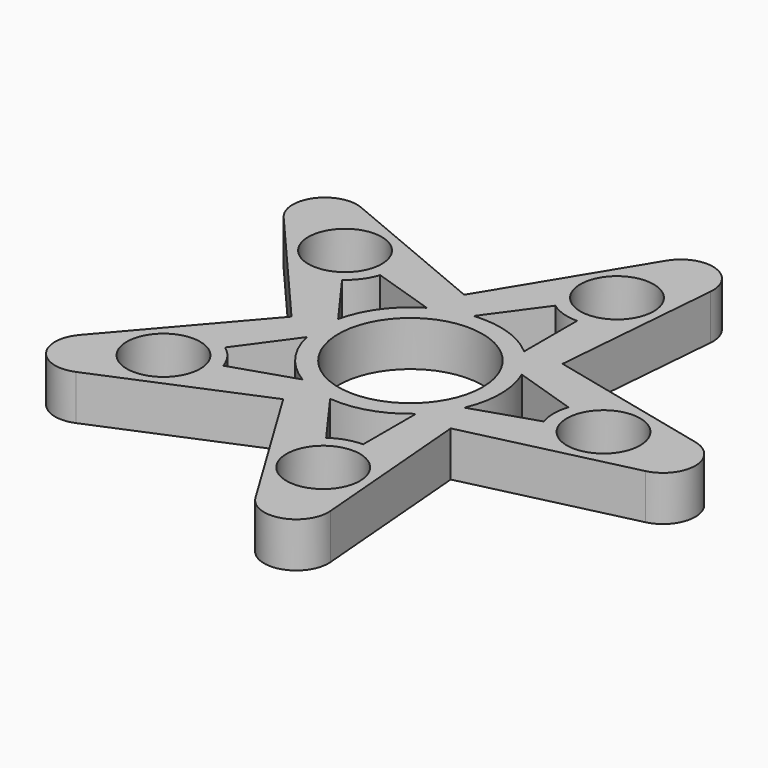
from build123d import *

# Parameters (mm, degrees)
F0_R     = 5.7
F0_R_2   = 11.2
F1_DEPTH = 7
F2_R     = 5


with BuildPart() as f1:
    # F0 (on Top) → F1 (new body)
    with BuildSketch(Plane.XY):
        Polygon((14.950241, -10.861986), (61.069731, 0), (14.950241, 10.861986), (18.871585, 58.080765), (-5.710484, 17.575063), (-49.40645, 35.895887), (-18.479514, 0), (-49.40645, -35.895887), (-5.710484, -17.575063), (18.871585, -58.080765), align=None)
        with Locations((-24.27051, -17.633558)):
            Circle(F0_R, mode=Mode.SUBTRACT)
        with BuildLine():
            Line((9.27051, -10.490836), (9.27051, -20.77537))
            ThreePointArc((9.27051, -20.77537), (6.873673, -21.154992), (4.711456, -22.256696))
            Line((4.711456, -22.256696), (-1.333641, -13.936334))
            ThreePointArc((-1.333641, -13.936334), (4.326238, -13.314791), (9.27051, -10.490836))
        make_face(mode=Mode.SUBTRACT)
        with BuildLine():
            Line((-7.112633, -12.058626), (-16.893806, -15.236721))
            ThreePointArc((-16.893806, -15.236721), (-17.995511, -13.074504), (-19.711456, -11.358558))
            Line((-19.711456, -11.358558), (-13.666359, -3.038196))
            ThreePointArc((-13.666359, -3.038196), (-11.326238, -8.228994), (-7.112633, -12.058626))
        make_face(mode=Mode.SUBTRACT)
        Circle(F0_R_2, mode=Mode.SUBTRACT)
        with Locations((9.27051, -28.531695)):
            Circle(F0_R, mode=Mode.SUBTRACT)
        with BuildLine():
            ThreePointArc((22.623296, 2.396836), (22.243675, 0), (22.623296, -2.396836))
            Line((22.623296, -2.396836), (12.842123, -5.574932))
            ThreePointArc((12.842123, -5.574932), (14, 0), (12.842123, 5.574932))
            Line((12.842123, 5.574932), (22.623296, 2.396836))
        make_face(mode=Mode.SUBTRACT)
        with Locations((30, 0)):
            Circle(F0_R, mode=Mode.SUBTRACT)
        with Locations((-24.27051, 17.633558)):
            Circle(F0_R, mode=Mode.SUBTRACT)
        with BuildLine():
            Line((-13.666359, 3.038196), (-19.711456, 11.358558))
            ThreePointArc((-19.711456, 11.358558), (-17.995511, 13.074504), (-16.893806, 15.236721))
            Line((-16.893806, 15.236721), (-7.112633, 12.058626))
            ThreePointArc((-7.112633, 12.058626), (-11.326238, 8.228994), (-13.666359, 3.038196))
        make_face(mode=Mode.SUBTRACT)
        with BuildLine():
            Line((9.27051, 20.77537), (9.27051, 10.490836))
            ThreePointArc((9.27051, 10.490836), (4.326238, 13.314791), (-1.333641, 13.936334))
            Line((-1.333641, 13.936334), (4.711456, 22.256696))
            ThreePointArc((4.711456, 22.256696), (6.873673, 21.154992), (9.27051, 20.77537))
        make_face(mode=Mode.SUBTRACT)
        with Locations((9.27051, 28.531695)):
            Circle(F0_R, mode=Mode.SUBTRACT)
    extrude(amount=F1_DEPTH)

    # F2
    f2_edges = [f1.edges().sort_by_distance(p)[0] for p in [
        (18.871585, -58.080765, 3.5),
        (61.069731, 0, 3.5),
        (18.871585, 58.080765, 3.5),
        (-49.40645, 35.895887, 3.5),
        (-49.40645, -35.895887, 3.5),
    ]]
    fillet(f2_edges, radius=F2_R)


solid = f1.part
